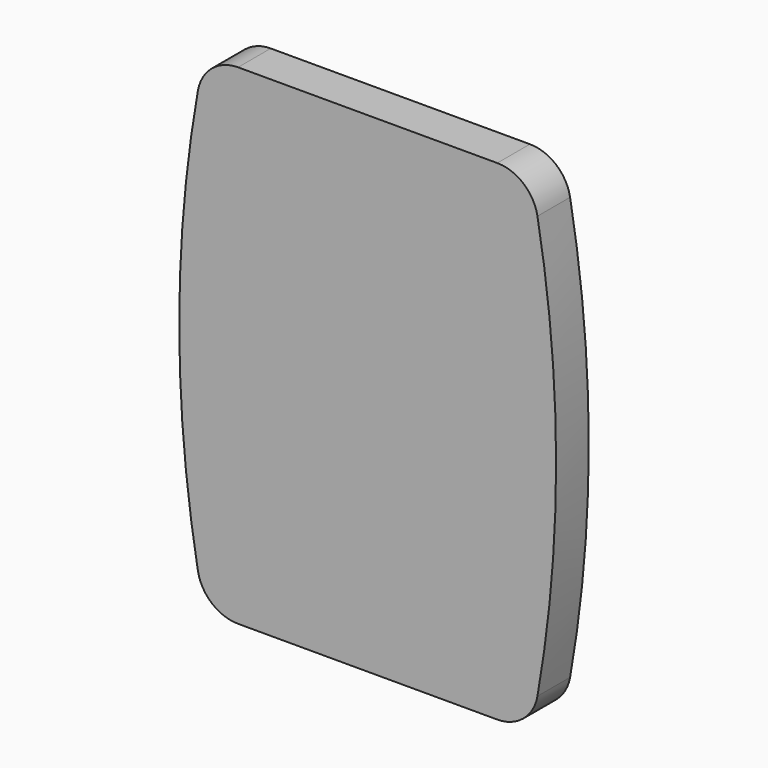
from build123d import *

# Parameters (mm, degrees)
F1_DEPTH = 19.05
F2_DEPTH = 19.05
F3_DEPTH = 19.05
F4_R     = 19.05


with BuildPart() as f1:
    # F0 (on Front) → F1 (new body)
    with BuildSketch(Plane.XZ):
        Polygon((-92.987883, 161.679518), (-113.869874, 161.679518), (-113.869874, -66.920482), (-99.337883, -66.920482), (-92.987883, -66.920482), (-81.616402, -66.920482), (-75.266402, -66.920482), (38.530126, -66.920482), (38.530126, 161.679518), (-81.616402, 161.679518), align=None)
    extrude(amount=F1_DEPTH)

    # F0 (on Front) → F2 (join)
    with BuildSketch(Plane.XZ):
        with BuildLine():
            Line((-113.869874, -66.920482), (-113.869874, 161.679518))
            ThreePointArc((-113.869874, 161.679518), (-125.585738, 47.379518), (-113.869874, -66.920482))
        make_face()
    extrude(amount=F2_DEPTH)

    # F0 (on Front) → F3 (join)
    with BuildSketch(Plane.XZ):
        with BuildLine():
            ThreePointArc((38.530126, -66.920482), (50.245991, 47.379518), (38.530126, 161.679518))
            Line((38.530126, 161.679518), (38.530126, -66.920482))
        make_face()
    extrude(amount=F3_DEPTH)

    # F4
    f4_edges = [f1.edges().sort_by_distance(p)[0] for p in [
        (-113.869874, -9.525, 161.679518),
        (38.530126, -9.525, 161.679518),
        (38.530126, -9.525, -66.920482),
        (-113.869874, -9.525, -66.920482),
    ]]
    fillet(f4_edges, radius=F4_R)


solid = f1.part
